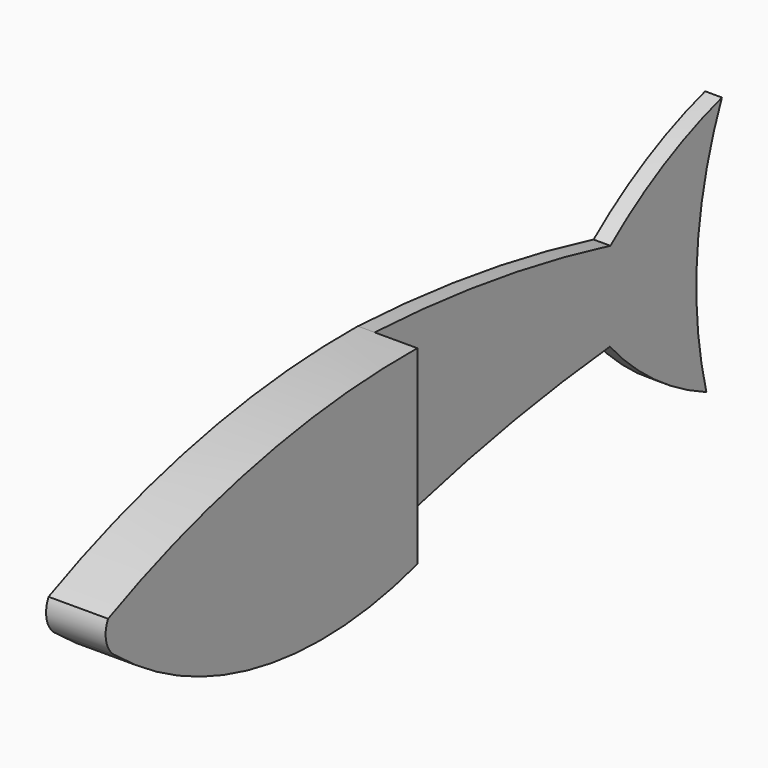
from build123d import *

# Parameters (mm, degrees)
F1_DEPTH = 9.906
F3_DEPTH = 2.794


with BuildPart() as f1:
    # F0 (on Right) → F1 (new body)
    with BuildSketch(Plane.YZ):
        with BuildLine():
            Line((0, -15.932225), (0, 15.699638))
            ThreePointArc((0, 15.699638), (-32.89709, 12.490711), (-64.310364, 2.208592))
            ThreePointArc((-64.310364, 2.208592), (-64.66117, -1.128846), (-62.682256, -3.839097))
            ThreePointArc((-62.682256, -3.839097), (-32.843466, -17.672724), (0, -15.932225))
        make_face()
    extrude(amount=F1_DEPTH)

    # F2 (on Right) → F3 (join)
    with BuildSketch(Plane.YZ):
        with BuildLine():
            ThreePointArc((72.237901, 20.736959), (60.036294, 15.731869), (49.037538, 8.454676))
            ThreePointArc((49.037538, 8.454676), (24.701462, 13.310621), (0, 15.690245))
            Line((0, 15.690245), (0, -15.856627))
            ThreePointArc((0, -15.856627), (24.236816, -9.885356), (48.936777, -6.281016))
            ThreePointArc((48.936777, -6.281016), (58.146839, -14.812239), (69.007933, -21.108558))
            ThreePointArc((69.007933, -21.108558), (67.106412, 0.085632), (72.237901, 20.736959))
        make_face()
    extrude(amount=F3_DEPTH)


solid = f1.part
